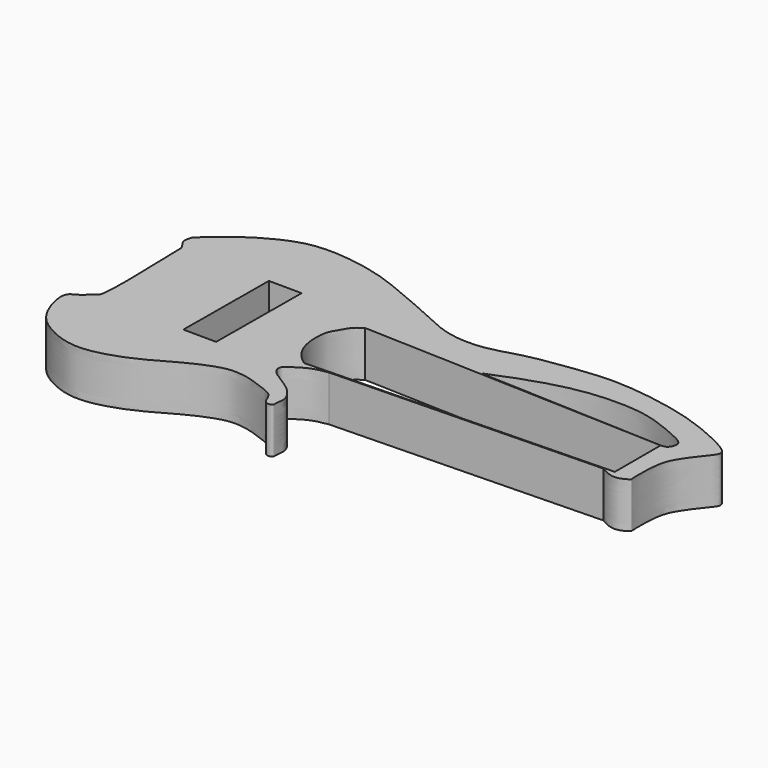
from build123d import *

# Parameters (mm, degrees)
F1_DEPTH = 50


with BuildPart() as f1:
    # F0 (on Top) → F1 (new body)
    with BuildSketch(Plane.XY):
        with BuildLine():
            add(Edge.make_bspline(
                [(-239.8049086332, 82.3949500918), (-230.7466903747, 91.364418151), (-214.6058443333, 105.8339785625), (-178.6812164409, 127.88131805), (-145.484407402, 138.5454026534), (-101.4433083275, 135.1417891192), (-64.3292841029, 125.740915806), (-32.0686073099, 111.8898765927), (9.0431589586, 94.7945921785), (29.8941013319, 83.8393482983), (54.0918979029, 77.7440565166), (83.5579805977, 77.8742108018), (118.9447735949, 89.8644539726), (153.3616818074, 95.0178637845), (200.6929584184, 101.5557651212), (244.6454449875, 97.8566549063), (293.1763421095, 88.6536165366), (333.8120456787, 73.1674684444), (361.3565164818, 58.5526470393), (362.8366658043, 50.4429024435), (354.8973780194, 41.5538418233), (339.4337686617, 20.9313917316), (331.6186065591, 3.4196914204), (332.0586692567, -31.8115665161), (333.040554398, -32.7193523505), (322.4209784227, -39.8173320308), (310.5197515375, -37.3609450166), (301.8734238278, -31.9319225511), (303.2730519772, -33.3315394819)],
                knots=[0, 0, 0, 0, 0.0439231925, 0.0912007196, 0.1349801444, 0.183759361, 0.2294962114, 0.2739807752, 0.3231848531, 0.3592940965, 0.3953720945, 0.4355022864, 0.4804186944, 0.5245485093, 0.5753645819, 0.6249436563, 0.6768941647, 0.7272418948, 0.7667971056, 0.7845763113, 0.8091952835, 0.846242623, 0.8818477926, 0.9237583257, 0.9299496695, 0.9537398971, 0.9829139631, 1, 1, 1, 1], degree=3))
            add(Edge.make_bspline(
                [(7.6824738644, -39.6004055468), (1.7530456163, -40.5507034247), (-9.8914767259, -42.4248067762), (-23.8912628801, -51.9316895228), (-31.8613502746, -56.8896447118), (-30.9002619375, -66.0140747941), (-19.1086319917, -74.4322601205), (0.151118906, -85.1847574346), (10.299020474, -101.6613419265), (6.9961269769, -110.9092645667), (8.6179895149, -117.3692369342), (-2.6861062152, -118.2202802206), (-4.3203927633, -101.5939141965), (-24.4141031737, -96.3549483644), (-34.2927298334, -91.4093542459), (-54.3385114855, -87.3606378539), (-71.5277211018, -89.5823428911), (-99.2986802974, -101.2819322085), (-125.9876693299, -117.5656581471), (-155.5641797858, -131.3446083231), (-191.7673912203, -139.6205859845), (-223.0370176277, -129.5512320075), (-249.2327683871, -111.4409597574), (-259.7954866035, -80.0054939379), (-259.110845145, -64.8748776663), (-248.3504903465, -61.5713178802), (-239.0779405726, -51.0853321426), (-230.5645906193, -49.6567830678), (-235.6238726521, 57.0215004018), (-234.6206373046, 62.2027905307), (-240.9544156942, 70.1214506451), (-242.6040263043, 74.6973727569), (-239.8049086332, 82.3949500918)],
                knots=[0, 0, 0, 0, 0.0335064171, 0.0660040071, 0.0889340129, 0.109882009, 0.1393219008, 0.1772899956, 0.2106933832, 0.2345535978, 0.25212493, 0.2730416305, 0.3023801888, 0.3366092739, 0.363924693, 0.3985509047, 0.4317086104, 0.4746112569, 0.5192576721, 0.5645641387, 0.6121170229, 0.6567420052, 0.7009811806, 0.7459140508, 0.7740350424, 0.7991295027, 0.8275042455, 0.8484001888, 0.9285164785, 0.9494644752, 0.9711969228, 1, 1, 1, 1], degree=3))
            Line((7.6824738644, -39.6004055468), (301.8734238278, -31.9319225511))
            Line((301.8734238278, -31.9319225511), (303.2730519772, -33.3315394819))
        make_face()
        Polygon((-139.2882771355, -55.3143054821), (-138.5450781978, 60.6245404994), (-102.5003867628, 60.3934844098), (-103.2435857005, -55.5453615716), align=None, mode=Mode.SUBTRACT)
        with BuildLine():
            add(Edge.make_bspline(
                [(-19.7534374893, 43.9555421472), (-23.2056085451, 41.7677813498), (-28.5833381807, 38.4653477089), (-34.2335264723, 28.2133773982), (-40.9529503028, 17.7854788442), (-41.7469846056, 6.4081158922), (-41.590814454, -5.4459024859), (-38.0939971607, -19.1917228451), (-32.0809084976, -28.2693975511), (-25.7020650316, -35.1744055905), (-22.0088051442, -37.9256965212), (-20.2732756734, -39.2186045647)],
                knots=[0, 0, 0, 0, 0.1091755513, 0.222721557, 0.3415839461, 0.4540220613, 0.5711550914, 0.6978312595, 0.8099557344, 0.9126382629, 1, 1, 1, 1], degree=3))
            Line((-19.7534374893, 43.9555421472), (312.998283572, 32.0557701289))
            Line((312.998283572, 32.0557701289), (312.998283572, -30.5787529796))
            Line((312.998283572, -30.5787529796), (-20.2732756734, -39.2186045647))
        make_face(mode=Mode.SUBTRACT)
        with BuildLine():
            Line((310.2445304394, 32.2003252804), (110.1631596684, 40.566097945))
            add(Edge.make_bspline(
                [(110.1631596684, 40.566097945), (124.8498747771, 46.7452020355), (158.5105709505, 60.0968757775), (207.6143397073, 71.7672709728), (256.9251591922, 71.4468589354), (283.287180541, 64.2974220642), (307.0780567139, 54.5621331548), (323.9019595123, 46.390322776), (322.660685006, 37.5779883621), (318.3445455647, 31.7751171257), (312.998283572, 32.0557701289), (310.2445304394, 32.2003252804)],
                knots=[0, 0, 0, 0, 0.1640821291, 0.3292696396, 0.4879948213, 0.6074043937, 0.7247237775, 0.8180491116, 0.8784747694, 0.9364945302, 1, 1, 1, 1], degree=3))
        make_face(mode=Mode.SUBTRACT)
    extrude(amount=F1_DEPTH)


solid = f1.part
